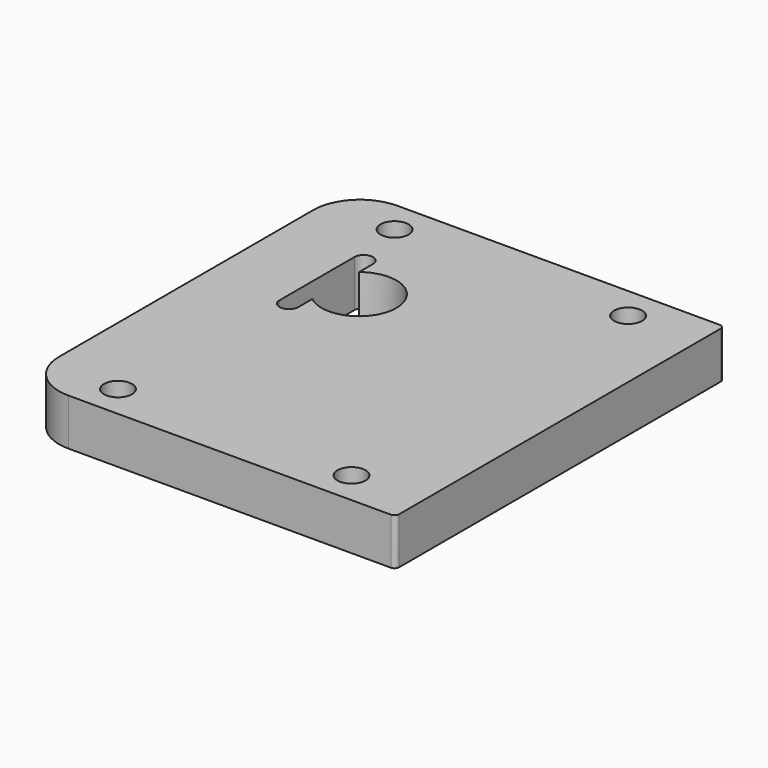
from build123d import *

# Parameters (mm, degrees)
SKETCH_W    = 80
SKETCH_H    = 88
SKETCH_R    = 3
PAD_DEPTH   = 10
FILLET_R    = 10
FILLET001_R = 1


with BuildPart() as part:
    # Sketch → Pad (new body)
    with BuildSketch(Plane.XY):
        with Locations((15, -15)):
            Rectangle(SKETCH_W, SKETCH_H)
        with Locations((-10, -52)):
            Circle(SKETCH_R, mode=Mode.SUBTRACT)
        with Locations((40, -52)):
            Circle(SKETCH_R, mode=Mode.SUBTRACT)
        with Locations((40, 22)):
            Circle(SKETCH_R, mode=Mode.SUBTRACT)
        with Locations((-10, 22)):
            Circle(SKETCH_R, mode=Mode.SUBTRACT)
        with BuildLine():
            ThreePointArc((-5, -6.244998), (8, 0), (-5, 6.244998))
            Line((-5, 6.244998), (-5, 10))
            ThreePointArc((-5, 10), (-7, 12), (-9, 10))
            Line((-9, 10), (-9, -10))
            ThreePointArc((-9, -10), (-7, -12), (-5, -10))
            Line((-5, -6.244998), (-5, -10))
        make_face(mode=Mode.SUBTRACT)
    extrude(amount=PAD_DEPTH)

    # Fillet
    fillet_edges = [part.edges().sort_by_distance(p)[0] for p in [
        (-25, -59, 5),
        (-25, 29, 5),
    ]]
    fillet(fillet_edges, radius=FILLET_R)

    # Fillet001
    fillet001_edges = [part.edges().sort_by_distance(p)[0] for p in [
        (55, -59, 5),
        (55, 29, 5),
    ]]
    fillet(fillet001_edges, radius=FILLET001_R)


solid = part.part
